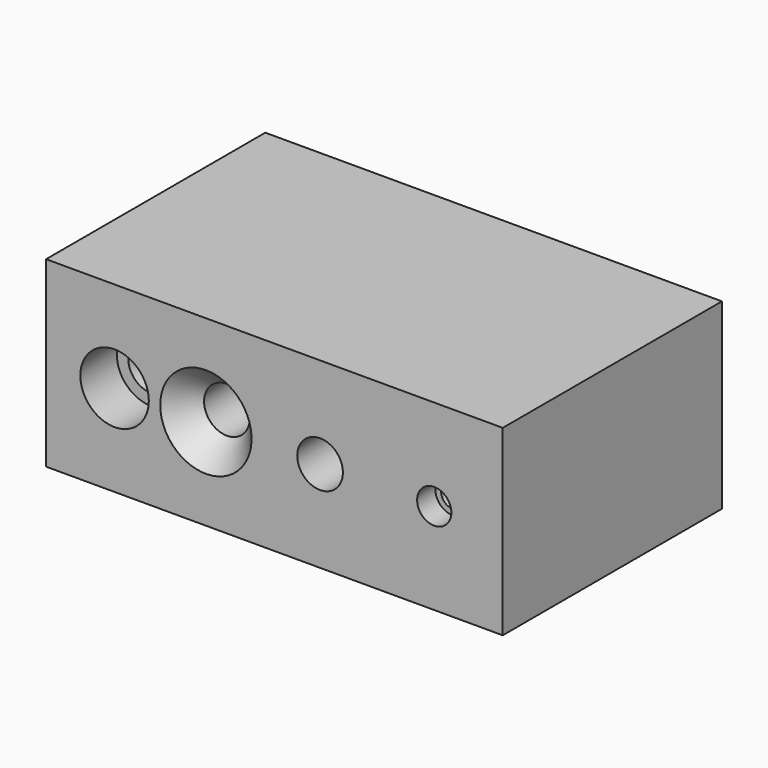
from build123d import *

# Parameters (mm, degrees)
F0_W           = 127
F0_H           = 50.8
F1_DEPTH       = 76.2
F3_D           = 12.7
F3_DEPTH       = 50.8
F3_CBORE_D     = 19.05
F3_CBORE_DEPTH = 12.7
F3_TIP         = 3.8154649308
F4_D           = 12.7
F4_CSINK_D     = 25.4
F4_CSINK_ANGLE = 82
F5_D           = 12.7
F6_D           = 6.35
F6_DEPTH       = 25.4
F6_CBORE_D     = 9.525
F6_CBORE_DEPTH = 6.35
F6_TIP         = 1.9077324654


with BuildPart() as f1:
    # F0 (on Front) → F1 (new body)
    with BuildSketch(Plane.XZ):
        with Locations((63.5, 25.4)):
            Rectangle(F0_W, F0_H)
    extrude(amount=F1_DEPTH)

    # F3
    with Locations(Plane.XZ.offset(76.2)):
        with Locations((19.05, 25.4)):
            CounterBoreHole(F3_D / 2, F3_CBORE_D / 2, F3_CBORE_DEPTH, depth=F3_DEPTH)
            with Locations((0, 0, -(F3_DEPTH + F3_TIP / 2))):  # 118° drill point
                Cone(0, F3_D / 2, F3_TIP, mode=Mode.SUBTRACT)

    # F4 (through all)
    with Locations(Plane.XZ.offset(76.2)):
        with Locations((44.45, 25.4)):
            CounterSinkHole(F4_D / 2, F4_CSINK_D / 2, counter_sink_angle=F4_CSINK_ANGLE)

    # F5 (through all)
    with Locations(Plane.XZ.offset(76.2)):
        with Locations((76.2, 25.4)):
            Hole(F5_D / 2)

    # F6
    with Locations(Plane.XZ.offset(76.2)):
        with Locations((107.95, 25.4)):
            CounterBoreHole(F6_D / 2, F6_CBORE_D / 2, F6_CBORE_DEPTH, depth=F6_DEPTH)
            with Locations((0, 0, -(F6_DEPTH + F6_TIP / 2))):  # 118° drill point
                Cone(0, F6_D / 2, F6_TIP, mode=Mode.SUBTRACT)


solid = f1.part
